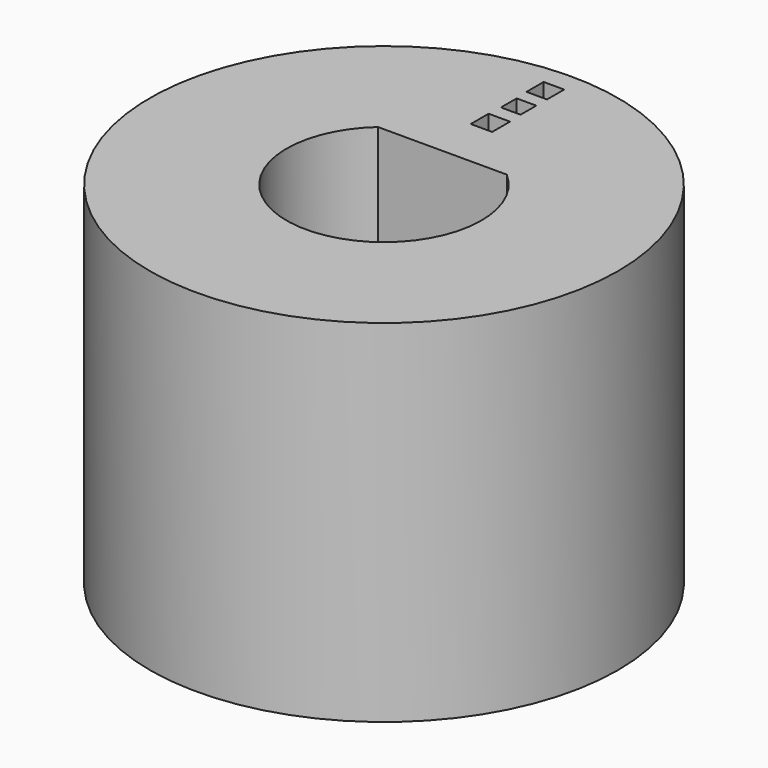
from build123d import *

# Parameters (mm, degrees)
F0_R     = 10
F1_DEPTH = 15
F2_W     = 0.877347
F2_H     = 0.915492
F2_W_2   = 0.839201
F2_H_2   = 0.839201
F2_W_3   = 0.915492
F2_H_3   = 0.953637
F3_DEPTH = 1


with BuildPart() as f1:
    # F0 (on Top) → F1 (new body)
    with BuildSketch(Plane.XY):
        Circle(F0_R)
        with BuildLine():
            ThreePointArc((2.751581, 3.12), (0, -4.16), (-2.751581, 3.12))
            Line((-2.751581, 3.12), (2.751581, 3.12))
        make_face(mode=Mode.SUBTRACT)
    extrude(amount=F1_DEPTH)

    # F2 (on face) → F3 (cut)
    with BuildSketch(Plane.XY.offset(15)):
        with Locations((-0.032466, 8.653972)):
            Rectangle(F2_W, F2_H)
        with Locations((-0.013393, 7.204442)):
            Rectangle(F2_W_2, F2_H_2)
        with Locations((-0.013393, 5.697696)):
            Rectangle(F2_W_3, F2_H_3)
    extrude(amount=-F3_DEPTH, mode=Mode.SUBTRACT)


solid = f1.part
